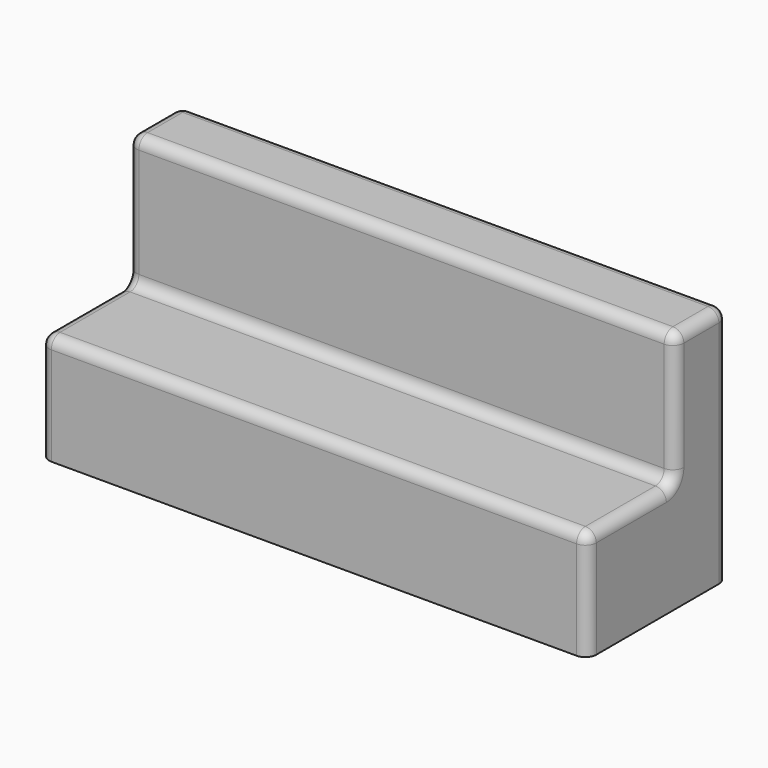
from build123d import *

# Parameters (mm, degrees)
F0_W     = 2500
F0_H     = 800
F1_DEPTH = 500
F2_W     = 2500
F2_H     = 300
F3_DEPTH = 600
F4_R     = 50


with BuildPart() as f1:
    # F0 (on Top) → F1 (new body)
    with BuildSketch(Plane.XY):
        with Locations((1250, 400)):
            Rectangle(F0_W, F0_H)
    extrude(amount=F1_DEPTH)

    # F2 (on face) → F3 (join)
    with BuildSketch(Plane.XY.offset(500)):
        with Locations((1250, 650)):
            Rectangle(F2_W, F2_H)
    extrude(amount=F3_DEPTH)

    # F4
    f4_edges = [f1.edges().sort_by_distance(p)[0] for p in [
        (1250, 500, 500),
        (1250, 0, 500),
        (0, 0, 250),
        (0, 250, 500),
        (0, 800, 550),
        (1250, 500, 1100),
        (1250, 800, 1100),
        (2500, 500, 800),
        (2500, 250, 500),
        (2500, 0, 250),
        (2500, 800, 550),
        (2500, 650, 1100),
        (0, 650, 1100),
        (0, 500, 800),
    ]]
    fillet(f4_edges, radius=F4_R)


solid = f1.part
